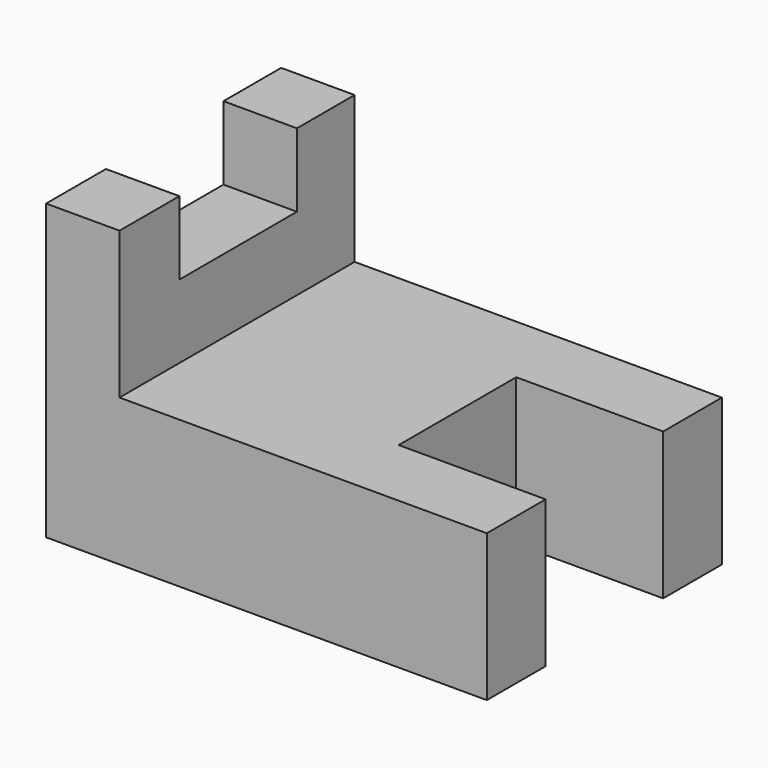
from build123d import *

# Parameters (mm, degrees)
F1_DEPTH = 12.7
F2_W     = 12.7
F2_H     = 6.35
F3_DEPTH = 38.101
F4_W     = 12.7
F4_H     = 12.7
F5_DEPTH = 12.7


with BuildPart() as f1:
    # F0 (on Front) → F1 (new body, symmetric)
    with BuildSketch(Plane.XZ):
        Polygon((-38.1, 0), (0, 0), (0, 12.7), (-31.75, 12.7), (-31.75, 25.4), (-38.1, 25.4), align=None)
    extrude(amount=F1_DEPTH, both=True)

    # F2 (on Right) → F3 (cut, through all)
    with BuildSketch(Plane.YZ):
        with Locations((0.115454, 22.225)):
            Rectangle(F2_W, F2_H)
    extrude(amount=-F3_DEPTH, mode=Mode.SUBTRACT)

    # F4 (on Right) → F5 (cut)
    with BuildSketch(Plane.YZ):
        with Locations((0, 6.35)):
            Rectangle(F4_W, F4_H)
    extrude(amount=-F5_DEPTH, mode=Mode.SUBTRACT)


solid = f1.part
